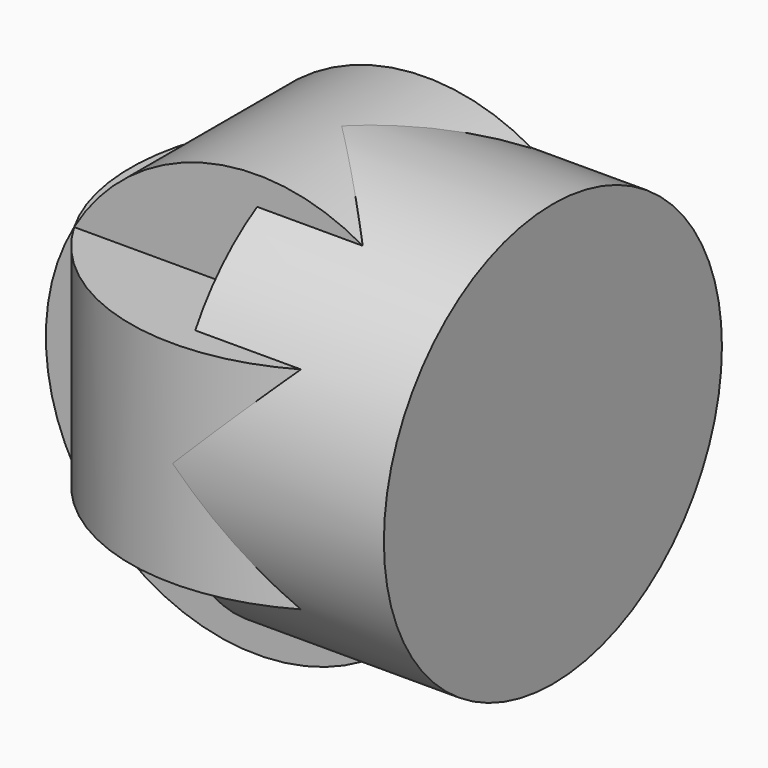
from build123d import *

# Parameters (mm, degrees)
F1_R     = 38.1
F3_DEPTH = 19.05
F0_R     = 38.1
F4_DEPTH = 19.05
F2_R     = 38.1
F5_DEPTH = 38.1


with BuildPart() as f3:
    # F1 (on Top) → F3 (new body, symmetric)
    with BuildSketch(Plane.XY):
        Circle(F1_R)
    extrude(amount=F3_DEPTH, both=True)

    # F0 (on Front) → F4 (join, symmetric)
    with BuildSketch(Plane.XZ):
        Circle(F0_R)
    extrude(amount=F4_DEPTH, both=True)

    # F2 (on Right) → F5 (join)
    with BuildSketch(Plane.YZ):
        Circle(F2_R)
    extrude(amount=F5_DEPTH)


solid = f3.part
